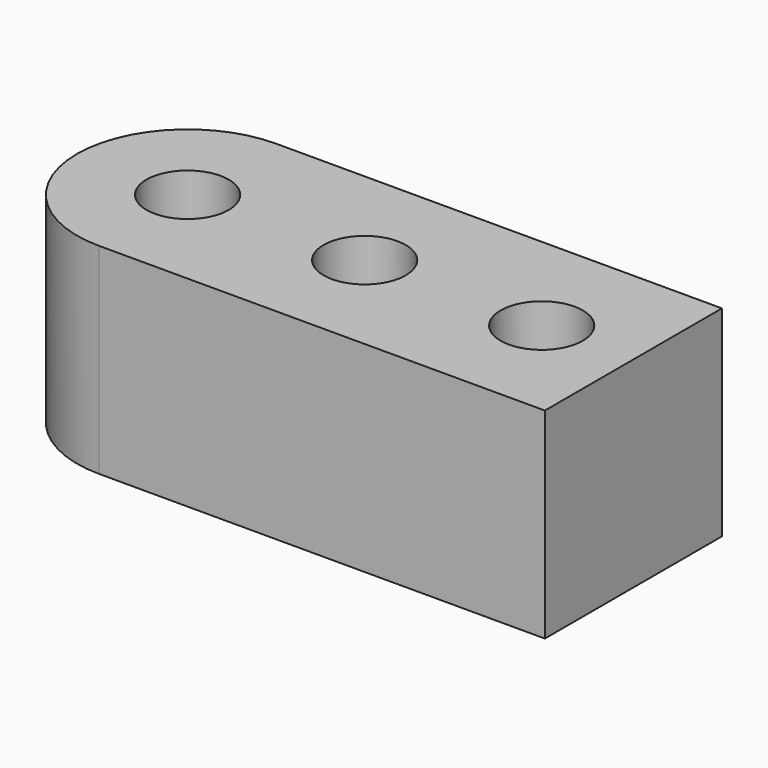
from build123d import *

# Parameters (mm, degrees)
F0_W     = 7.05
F0_H     = 3.5
F1_DEPTH = 3.175
F3_D     = 1.3


with BuildPart() as f1:
    # F0 (on Top) → F1 (new body)
    with BuildSketch(Plane.XY):
        Rectangle(F0_W, F0_H)
        with BuildLine():
            Line((-3.525, -1.75), (-3.525, 1.75))
            ThreePointArc((-3.525, 1.75), (-5.275, 0), (-3.525, -1.75))
        make_face()
    extrude(amount=F1_DEPTH)

    # F3 (through all)
    with Locations(Plane.XY.offset(3.175)):
        with Locations((-0.725, 0), (-3.525, 0), (2.075, 0)):
            Hole(F3_D / 2)


solid = f1.part
